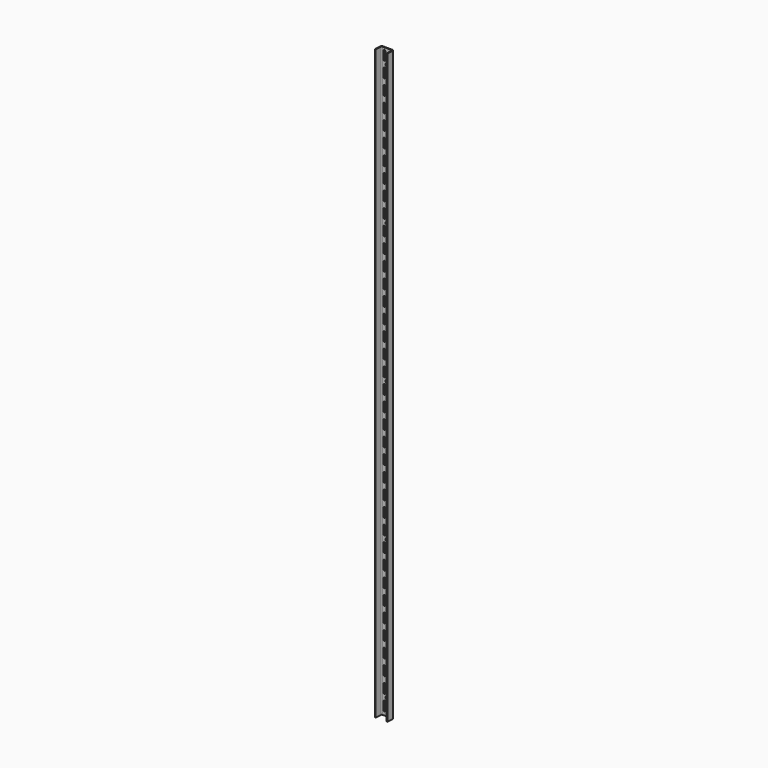
from build123d import *

# Parameters (mm, degrees)
F1_DEPTH = 1206.5
F2_R     = 3.175
F3_DEPTH = 25.4
F5_DEPTH = 15.848939


with BuildPart() as f1:
    # F0 (on Top) → F1 (new body)
    with BuildSketch(Plane.XY):
        with BuildLine():
            ThreePointArc((12.965239, 4.53678), (12.098423, 6.919561), (9.770294, 7.923969))
            Line((9.770294, 7.923969), (-9.217976, 7.923969))
            ThreePointArc((-9.217976, 7.923969), (-11.413967, 7.051697), (-12.41292, 4.910359))
            Line((-12.41292, 4.910359), (-13.163268, -7.923969))
            Line((-13.163268, -7.923969), (-11.573057, -7.923969))
            Line((-11.573057, -7.923969), (-10.827427, 4.829664))
            ThreePointArc((-10.827427, 4.829664), (-10.327951, 5.900333), (-9.229955, 6.336469))
            Line((-9.229955, 6.336469), (9.783759, 6.336469))
            ThreePointArc((9.783759, 6.336469), (10.947823, 5.834265), (11.381231, 4.642874))
            Line((11.381231, 4.642874), (10.646521, -7.923969))
            Line((10.646521, -7.923969), (12.236732, -7.923969))
            Line((12.236732, -7.923969), (12.965239, 4.53678))
        make_face()
    extrude(amount=F1_DEPTH)

    # F2 (on face) → F3 (cut)
    with BuildSketch(Plane(origin=(0, 7.923969, 0), x_dir=(-1, 0, 0), z_dir=(0, 1, 0))):
        with Locations((-0.276159, 33.3375)):
            Circle(F2_R)
        with Locations((-0.276159, 319.0875)):
            Circle(F2_R)
        with Locations((-0.276159, 604.8375)):
            Circle(F2_R)
        with Locations((-0.276159, 890.5875)):
            Circle(F2_R)
        with Locations((-0.276159, 1176.3375)):
            Circle(F2_R)
    extrude(amount=-F3_DEPTH, mode=Mode.SUBTRACT)

    # F4 (on face) → F5 (cut, through all)
    with BuildSketch(Plane(origin=(0, 7.923969, 0), x_dir=(-1, 0, 0), z_dir=(0, 1, 0))):
        with BuildLine():
            ThreePointArc((-3.848034, 1200.15), (-5.832409, 1202.134375), (-7.816784, 1200.15))
            Line((-7.816784, 1200.15), (-7.816784, 1184.275))
            ThreePointArc((-7.816784, 1184.275), (-5.832409, 1182.290625), (-3.848034, 1184.275))
            Line((-3.848034, 1184.275), (-3.848034, 1200.15))
        make_face()
        with BuildLine():
            Line((7.264466, 1184.275), (7.264466, 1200.15))
            ThreePointArc((7.264466, 1200.15), (5.280091, 1202.134375), (3.295716, 1200.15))
            Line((3.295716, 1200.15), (3.295716, 1184.275))
            ThreePointArc((3.295716, 1184.275), (5.280091, 1182.290625), (7.264466, 1184.275))
        make_face()
        with BuildLine():
            Line((-3.848034, 1152.525), (-3.848034, 1168.4))
            ThreePointArc((-3.848034, 1168.4), (-5.832409, 1170.384375), (-7.816784, 1168.4))
            Line((-7.816784, 1168.4), (-7.816784, 1152.525))
            ThreePointArc((-7.816784, 1152.525), (-5.832409, 1150.540625), (-3.848034, 1152.525))
        make_face()
        with BuildLine():
            Line((7.264466, 1152.525), (7.264466, 1168.4))
            ThreePointArc((7.264466, 1168.4), (5.280091, 1170.384375), (3.295716, 1168.4))
            Line((3.295716, 1168.4), (3.295716, 1152.525))
            ThreePointArc((3.295716, 1152.525), (5.280091, 1150.540625), (7.264466, 1152.525))
        make_face()
        with BuildLine():
            Line((-3.848034, 1120.775), (-3.848034, 1136.65))
            ThreePointArc((-3.848034, 1136.65), (-5.832409, 1138.634375), (-7.816784, 1136.65))
            Line((-7.816784, 1136.65), (-7.816784, 1120.775))
            ThreePointArc((-7.816784, 1120.775), (-5.832409, 1118.790625), (-3.848034, 1120.775))
        make_face()
        with BuildLine():
            Line((7.264466, 1120.775), (7.264466, 1136.65))
            ThreePointArc((7.264466, 1136.65), (5.280091, 1138.634375), (3.295716, 1136.65))
            Line((3.295716, 1136.65), (3.295716, 1120.775))
            ThreePointArc((3.295716, 1120.775), (5.280091, 1118.790625), (7.264466, 1120.775))
        make_face()
        with BuildLine():
            Line((-3.848034, 1089.025), (-3.848034, 1104.9))
            ThreePointArc((-3.848034, 1104.9), (-5.832409, 1106.884375), (-7.816784, 1104.9))
            Line((-7.816784, 1104.9), (-7.816784, 1089.025))
            ThreePointArc((-7.816784, 1089.025), (-5.832409, 1087.040625), (-3.848034, 1089.025))
        make_face()
        with BuildLine():
            Line((7.264466, 1089.025), (7.264466, 1104.9))
            ThreePointArc((7.264466, 1104.9), (5.280091, 1106.884375), (3.295716, 1104.9))
            Line((3.295716, 1104.9), (3.295716, 1089.025))
            ThreePointArc((3.295716, 1089.025), (5.280091, 1087.040625), (7.264466, 1089.025))
        make_face()
        with BuildLine():
            Line((-3.848034, 1057.275), (-3.848034, 1073.15))
            ThreePointArc((-3.848034, 1073.15), (-5.832409, 1075.134375), (-7.816784, 1073.15))
            Line((-7.816784, 1073.15), (-7.816784, 1057.275))
            ThreePointArc((-7.816784, 1057.275), (-5.832409, 1055.290625), (-3.848034, 1057.275))
        make_face()
        with BuildLine():
            Line((7.264466, 1057.275), (7.264466, 1073.15))
            ThreePointArc((7.264466, 1073.15), (5.280091, 1075.134375), (3.295716, 1073.15))
            Line((3.295716, 1073.15), (3.295716, 1057.275))
            ThreePointArc((3.295716, 1057.275), (5.280091, 1055.290625), (7.264466, 1057.275))
        make_face()
        with BuildLine():
            Line((-3.848034, 1025.525), (-3.848034, 1041.4))
            ThreePointArc((-3.848034, 1041.4), (-5.832409, 1043.384375), (-7.816784, 1041.4))
            Line((-7.816784, 1041.4), (-7.816784, 1025.525))
            ThreePointArc((-7.816784, 1025.525), (-5.832409, 1023.540625), (-3.848034, 1025.525))
        make_face()
        with BuildLine():
            Line((7.264466, 1025.525), (7.264466, 1041.4))
            ThreePointArc((7.264466, 1041.4), (5.280091, 1043.384375), (3.295716, 1041.4))
            Line((3.295716, 1041.4), (3.295716, 1025.525))
            ThreePointArc((3.295716, 1025.525), (5.280091, 1023.540625), (7.264466, 1025.525))
        make_face()
        with BuildLine():
            Line((-3.848034, 993.775), (-3.848034, 1009.65))
            ThreePointArc((-3.848034, 1009.65), (-5.832409, 1011.634375), (-7.816784, 1009.65))
            Line((-7.816784, 1009.65), (-7.816784, 993.775))
            ThreePointArc((-7.816784, 993.775), (-5.832409, 991.790625), (-3.848034, 993.775))
        make_face()
        with BuildLine():
            Line((7.264466, 993.775), (7.264466, 1009.65))
            ThreePointArc((7.264466, 1009.65), (5.280091, 1011.634375), (3.295716, 1009.65))
            Line((3.295716, 1009.65), (3.295716, 993.775))
            ThreePointArc((3.295716, 993.775), (5.280091, 991.790625), (7.264466, 993.775))
        make_face()
        with BuildLine():
            Line((-3.848034, 962.025), (-3.848034, 977.9))
            ThreePointArc((-3.848034, 977.9), (-5.832409, 979.884375), (-7.816784, 977.9))
            Line((-7.816784, 977.9), (-7.816784, 962.025))
            ThreePointArc((-7.816784, 962.025), (-5.832409, 960.040625), (-3.848034, 962.025))
        make_face()
        with BuildLine():
            Line((7.264466, 962.025), (7.264466, 977.9))
            ThreePointArc((7.264466, 977.9), (5.280091, 979.884375), (3.295716, 977.9))
            Line((3.295716, 977.9), (3.295716, 962.025))
            ThreePointArc((3.295716, 962.025), (5.280091, 960.040625), (7.264466, 962.025))
        make_face()
        with BuildLine():
            Line((7.264466, 898.525), (7.264466, 914.4))
            ThreePointArc((7.264466, 914.4), (5.280091, 916.384375), (3.295716, 914.4))
            Line((3.295716, 914.4), (3.295716, 898.525))
            ThreePointArc((3.295716, 898.525), (5.280091, 896.540625), (7.264466, 898.525))
        make_face()
        with BuildLine():
            Line((-3.848034, 930.275), (-3.848034, 946.15))
            ThreePointArc((-3.848034, 946.15), (-5.832409, 948.134375), (-7.816784, 946.15))
            Line((-7.816784, 946.15), (-7.816784, 930.275))
            ThreePointArc((-7.816784, 930.275), (-5.832409, 928.290625), (-3.848034, 930.275))
        make_face()
        with BuildLine():
            Line((-3.848034, 898.525), (-3.848034, 914.4))
            ThreePointArc((-3.848034, 914.4), (-5.832409, 916.384375), (-7.816784, 914.4))
            Line((-7.816784, 914.4), (-7.816784, 898.525))
            ThreePointArc((-7.816784, 898.525), (-5.832409, 896.540625), (-3.848034, 898.525))
        make_face()
        with BuildLine():
            Line((7.264466, 930.275), (7.264466, 946.15))
            ThreePointArc((7.264466, 946.15), (5.280091, 948.134375), (3.295716, 946.15))
            Line((3.295716, 946.15), (3.295716, 930.275))
            ThreePointArc((3.295716, 930.275), (5.280091, 928.290625), (7.264466, 930.275))
        make_face()
        with BuildLine():
            Line((7.264466, 454.025), (7.264466, 469.9))
            ThreePointArc((7.264466, 469.9), (5.280091, 471.884375), (3.295716, 469.9))
            Line((3.295716, 469.9), (3.295716, 454.025))
            ThreePointArc((3.295716, 454.025), (5.280091, 452.040625), (7.264466, 454.025))
        make_face()
        with BuildLine():
            Line((-3.848034, 200.025), (-3.848034, 215.9))
            ThreePointArc((-3.848034, 215.9), (-5.832409, 217.884375), (-7.816784, 215.9))
            Line((-7.816784, 215.9), (-7.816784, 200.025))
            ThreePointArc((-7.816784, 200.025), (-5.832409, 198.040625), (-3.848034, 200.025))
        make_face()
        with BuildLine():
            Line((7.264466, 581.025), (7.264466, 596.9))
            ThreePointArc((7.264466, 596.9), (5.280091, 598.884375), (3.295716, 596.9))
            Line((3.295716, 596.9), (3.295716, 581.025))
            ThreePointArc((3.295716, 581.025), (5.280091, 579.040625), (7.264466, 581.025))
        make_face()
        with BuildLine():
            Line((7.264466, 41.275), (7.264466, 57.15))
            ThreePointArc((7.264466, 57.15), (5.280091, 59.134375), (3.295716, 57.15))
            Line((3.295716, 57.15), (3.295716, 41.275))
            ThreePointArc((3.295716, 41.275), (5.280091, 39.290625), (7.264466, 41.275))
        make_face()
        with BuildLine():
            Line((-3.848034, 358.775), (-3.848034, 374.65))
            ThreePointArc((-3.848034, 374.65), (-5.832409, 376.634375), (-7.816784, 374.65))
            Line((-7.816784, 374.65), (-7.816784, 358.775))
            ThreePointArc((-7.816784, 358.775), (-5.832409, 356.790625), (-3.848034, 358.775))
        make_face()
        with BuildLine():
            Line((-3.848034, 676.275), (-3.848034, 692.15))
            ThreePointArc((-3.848034, 692.15), (-5.832409, 694.134375), (-7.816784, 692.15))
            Line((-7.816784, 692.15), (-7.816784, 676.275))
            ThreePointArc((-7.816784, 676.275), (-5.832409, 674.290625), (-3.848034, 676.275))
        make_face()
        with BuildLine():
            Line((7.264466, 358.775), (7.264466, 374.65))
            ThreePointArc((7.264466, 374.65), (5.280091, 376.634375), (3.295716, 374.65))
            Line((3.295716, 374.65), (3.295716, 358.775))
            ThreePointArc((3.295716, 358.775), (5.280091, 356.790625), (7.264466, 358.775))
        make_face()
        with BuildLine():
            Line((-3.848034, 612.775), (-3.848034, 628.65))
            ThreePointArc((-3.848034, 628.65), (-5.832409, 630.634375), (-7.816784, 628.65))
            Line((-7.816784, 628.65), (-7.816784, 612.775))
            ThreePointArc((-7.816784, 612.775), (-5.832409, 610.790625), (-3.848034, 612.775))
        make_face()
        with BuildLine():
            Line((7.264466, 295.275), (7.264466, 311.15))
            ThreePointArc((7.264466, 311.15), (5.280091, 313.134375), (3.295716, 311.15))
            Line((3.295716, 311.15), (3.295716, 295.275))
            ThreePointArc((3.295716, 295.275), (5.280091, 293.290625), (7.264466, 295.275))
        make_face()
        with BuildLine():
            Line((7.264466, 168.275), (7.264466, 184.15))
            ThreePointArc((7.264466, 184.15), (5.280091, 186.134375), (3.295716, 184.15))
            Line((3.295716, 184.15), (3.295716, 168.275))
            ThreePointArc((3.295716, 168.275), (5.280091, 166.290625), (7.264466, 168.275))
        make_face()
        with BuildLine():
            Line((-3.848034, 803.275), (-3.848034, 819.15))
            ThreePointArc((-3.848034, 819.15), (-5.832409, 821.134375), (-7.816784, 819.15))
            Line((-7.816784, 819.15), (-7.816784, 803.275))
            ThreePointArc((-7.816784, 803.275), (-5.832409, 801.290625), (-3.848034, 803.275))
        make_face()
        with BuildLine():
            Line((7.264466, 676.275), (7.264466, 692.15))
            ThreePointArc((7.264466, 692.15), (5.280091, 694.134375), (3.295716, 692.15))
            Line((3.295716, 692.15), (3.295716, 676.275))
            ThreePointArc((3.295716, 676.275), (5.280091, 674.290625), (7.264466, 676.275))
        make_face()
        with BuildLine():
            Line((-3.848034, 485.775), (-3.848034, 501.65))
            ThreePointArc((-3.848034, 501.65), (-5.832409, 503.634375), (-7.816784, 501.65))
            Line((-7.816784, 501.65), (-7.816784, 485.775))
            ThreePointArc((-7.816784, 485.775), (-5.832409, 483.790625), (-3.848034, 485.775))
        make_face()
        with BuildLine():
            Line((7.264466, 136.525), (7.264466, 152.4))
            ThreePointArc((7.264466, 152.4), (5.280091, 154.384375), (3.295716, 152.4))
            Line((3.295716, 152.4), (3.295716, 136.525))
            ThreePointArc((3.295716, 136.525), (5.280091, 134.540625), (7.264466, 136.525))
        make_face()
        with BuildLine():
            Line((7.264466, 644.525), (7.264466, 660.4))
            ThreePointArc((7.264466, 660.4), (5.280091, 662.384375), (3.295716, 660.4))
            Line((3.295716, 660.4), (3.295716, 644.525))
            ThreePointArc((3.295716, 644.525), (5.280091, 642.540625), (7.264466, 644.525))
        make_face()
        with BuildLine():
            Line((-3.848034, 454.025), (-3.848034, 469.9))
            ThreePointArc((-3.848034, 469.9), (-5.832409, 471.884375), (-7.816784, 469.9))
            Line((-7.816784, 469.9), (-7.816784, 454.025))
            ThreePointArc((-7.816784, 454.025), (-5.832409, 452.040625), (-3.848034, 454.025))
        make_face()
        with BuildLine():
            Line((7.264466, 104.775), (7.264466, 120.65))
            ThreePointArc((7.264466, 120.65), (5.280091, 122.634375), (3.295716, 120.65))
            Line((3.295716, 120.65), (3.295716, 104.775))
            ThreePointArc((3.295716, 104.775), (5.280091, 102.790625), (7.264466, 104.775))
        make_face()
        with BuildLine():
            Line((7.264466, 612.775), (7.264466, 628.65))
            ThreePointArc((7.264466, 628.65), (5.280091, 630.634375), (3.295716, 628.65))
            Line((3.295716, 628.65), (3.295716, 612.775))
            ThreePointArc((3.295716, 612.775), (5.280091, 610.790625), (7.264466, 612.775))
        make_face()
        with BuildLine():
            Line((-3.848034, 422.275), (-3.848034, 438.15))
            ThreePointArc((-3.848034, 438.15), (-5.832409, 440.134375), (-7.816784, 438.15))
            Line((-7.816784, 438.15), (-7.816784, 422.275))
            ThreePointArc((-7.816784, 422.275), (-5.832409, 420.290625), (-3.848034, 422.275))
        make_face()
        with BuildLine():
            Line((7.264466, 390.525), (7.264466, 406.4))
            ThreePointArc((7.264466, 406.4), (5.280091, 408.384375), (3.295716, 406.4))
            Line((3.295716, 406.4), (3.295716, 390.525))
            ThreePointArc((3.295716, 390.525), (5.280091, 388.540625), (7.264466, 390.525))
        make_face()
        with BuildLine():
            Line((7.264466, 549.275), (7.264466, 565.15))
            ThreePointArc((7.264466, 565.15), (5.280091, 567.134375), (3.295716, 565.15))
            Line((3.295716, 565.15), (3.295716, 549.275))
            ThreePointArc((3.295716, 549.275), (5.280091, 547.290625), (7.264466, 549.275))
        make_face()
        with BuildLine():
            Line((-3.848034, 263.525), (-3.848034, 279.4))
            ThreePointArc((-3.848034, 279.4), (-5.832409, 281.384375), (-7.816784, 279.4))
            Line((-7.816784, 279.4), (-7.816784, 263.525))
            ThreePointArc((-7.816784, 263.525), (-5.832409, 261.540625), (-3.848034, 263.525))
        make_face()
        with BuildLine():
            Line((7.264466, 517.525), (7.264466, 533.4))
            ThreePointArc((7.264466, 533.4), (5.280091, 535.384375), (3.295716, 533.4))
            Line((3.295716, 533.4), (3.295716, 517.525))
            ThreePointArc((3.295716, 517.525), (5.280091, 515.540625), (7.264466, 517.525))
        make_face()
        with BuildLine():
            Line((-3.848034, 327.025), (-3.848034, 342.9))
            ThreePointArc((-3.848034, 342.9), (-5.832409, 344.884375), (-7.816784, 342.9))
            Line((-7.816784, 342.9), (-7.816784, 327.025))
            ThreePointArc((-7.816784, 327.025), (-5.832409, 325.040625), (-3.848034, 327.025))
        make_face()
        with BuildLine():
            Line((-3.848034, 231.775), (-3.848034, 247.65))
            ThreePointArc((-3.848034, 247.65), (-5.832409, 249.634375), (-7.816784, 247.65))
            Line((-7.816784, 247.65), (-7.816784, 231.775))
            ThreePointArc((-7.816784, 231.775), (-5.832409, 229.790625), (-3.848034, 231.775))
        make_face()
        with BuildLine():
            Line((7.264466, 485.775), (7.264466, 501.65))
            ThreePointArc((7.264466, 501.65), (5.280091, 503.634375), (3.295716, 501.65))
            Line((3.295716, 501.65), (3.295716, 485.775))
            ThreePointArc((3.295716, 485.775), (5.280091, 483.790625), (7.264466, 485.775))
        make_face()
        with BuildLine():
            Line((-3.848034, 295.275), (-3.848034, 311.15))
            ThreePointArc((-3.848034, 311.15), (-5.832409, 313.134375), (-7.816784, 311.15))
            Line((-7.816784, 311.15), (-7.816784, 295.275))
            ThreePointArc((-7.816784, 295.275), (-5.832409, 293.290625), (-3.848034, 295.275))
        make_face()
        with BuildLine():
            Line((-3.848034, 168.275), (-3.848034, 184.15))
            ThreePointArc((-3.848034, 184.15), (-5.832409, 186.134375), (-7.816784, 184.15))
            Line((-7.816784, 184.15), (-7.816784, 168.275))
            ThreePointArc((-7.816784, 168.275), (-5.832409, 166.290625), (-3.848034, 168.275))
        make_face()
        with BuildLine():
            Line((-3.848034, 136.525), (-3.848034, 152.4))
            ThreePointArc((-3.848034, 152.4), (-5.832409, 154.384375), (-7.816784, 152.4))
            Line((-7.816784, 152.4), (-7.816784, 136.525))
            ThreePointArc((-7.816784, 136.525), (-5.832409, 134.540625), (-3.848034, 136.525))
        make_face()
        with BuildLine():
            Line((-3.848034, 644.525), (-3.848034, 660.4))
            ThreePointArc((-3.848034, 660.4), (-5.832409, 662.384375), (-7.816784, 660.4))
            Line((-7.816784, 660.4), (-7.816784, 644.525))
            ThreePointArc((-7.816784, 644.525), (-5.832409, 642.540625), (-3.848034, 644.525))
        make_face()
        with BuildLine():
            Line((7.264466, 835.025), (7.264466, 850.9))
            ThreePointArc((7.264466, 850.9), (5.280091, 852.884375), (3.295716, 850.9))
            Line((3.295716, 850.9), (3.295716, 835.025))
            ThreePointArc((3.295716, 835.025), (5.280091, 833.040625), (7.264466, 835.025))
        make_face()
        with BuildLine():
            Line((7.264466, 803.275), (7.264466, 819.15))
            ThreePointArc((7.264466, 819.15), (5.280091, 821.134375), (3.295716, 819.15))
            Line((3.295716, 819.15), (3.295716, 803.275))
            ThreePointArc((3.295716, 803.275), (5.280091, 801.290625), (7.264466, 803.275))
        make_face()
        with BuildLine():
            Line((-3.848034, 73.025), (-3.848034, 88.9))
            ThreePointArc((-3.848034, 88.9), (-5.832409, 90.884375), (-7.816784, 88.9))
            Line((-7.816784, 88.9), (-7.816784, 73.025))
            ThreePointArc((-7.816784, 73.025), (-5.832409, 71.040625), (-3.848034, 73.025))
        make_face()
        with BuildLine():
            Line((7.264466, 263.525), (7.264466, 279.4))
            ThreePointArc((7.264466, 279.4), (5.280091, 281.384375), (3.295716, 279.4))
            Line((3.295716, 279.4), (3.295716, 263.525))
            ThreePointArc((3.295716, 263.525), (5.280091, 261.540625), (7.264466, 263.525))
        make_face()
        with BuildLine():
            Line((7.264466, 771.525), (7.264466, 787.4))
            ThreePointArc((7.264466, 787.4), (5.280091, 789.384375), (3.295716, 787.4))
            Line((3.295716, 787.4), (3.295716, 771.525))
            ThreePointArc((3.295716, 771.525), (5.280091, 769.540625), (7.264466, 771.525))
        make_face()
        with BuildLine():
            Line((7.264466, 231.775), (7.264466, 247.65))
            ThreePointArc((7.264466, 247.65), (5.280091, 249.634375), (3.295716, 247.65))
            Line((3.295716, 247.65), (3.295716, 231.775))
            ThreePointArc((3.295716, 231.775), (5.280091, 229.790625), (7.264466, 231.775))
        make_face()
        with BuildLine():
            Line((7.264466, 739.775), (7.264466, 755.65))
            ThreePointArc((7.264466, 755.65), (5.280091, 757.634375), (3.295716, 755.65))
            Line((3.295716, 755.65), (3.295716, 739.775))
            ThreePointArc((3.295716, 739.775), (5.280091, 737.790625), (7.264466, 739.775))
        make_face()
        with BuildLine():
            Line((-3.848034, 41.275), (-3.848034, 57.15))
            ThreePointArc((-3.848034, 57.15), (-5.832409, 59.134375), (-7.816784, 57.15))
            Line((-7.816784, 57.15), (-7.816784, 41.275))
            ThreePointArc((-7.816784, 41.275), (-5.832409, 39.290625), (-3.848034, 41.275))
        make_face()
        with BuildLine():
            Line((-3.848034, 549.275), (-3.848034, 565.15))
            ThreePointArc((-3.848034, 565.15), (-5.832409, 567.134375), (-7.816784, 565.15))
            Line((-7.816784, 565.15), (-7.816784, 549.275))
            ThreePointArc((-7.816784, 549.275), (-5.832409, 547.290625), (-3.848034, 549.275))
        make_face()
        with BuildLine():
            Line((-3.848034, 517.525), (-3.848034, 533.4))
            ThreePointArc((-3.848034, 533.4), (-5.832409, 535.384375), (-7.816784, 533.4))
            Line((-7.816784, 533.4), (-7.816784, 517.525))
            ThreePointArc((-7.816784, 517.525), (-5.832409, 515.540625), (-3.848034, 517.525))
        make_face()
        with BuildLine():
            Line((7.264466, 708.025), (7.264466, 723.9))
            ThreePointArc((7.264466, 723.9), (5.280091, 725.884375), (3.295716, 723.9))
            Line((3.295716, 723.9), (3.295716, 708.025))
            ThreePointArc((3.295716, 708.025), (5.280091, 706.040625), (7.264466, 708.025))
        make_face()
        with BuildLine():
            Line((-3.848034, 771.525), (-3.848034, 787.4))
            ThreePointArc((-3.848034, 787.4), (-5.832409, 789.384375), (-7.816784, 787.4))
            Line((-7.816784, 787.4), (-7.816784, 771.525))
            ThreePointArc((-7.816784, 771.525), (-5.832409, 769.540625), (-3.848034, 771.525))
        make_face()
        with BuildLine():
            Line((-3.848034, 9.525), (-3.848034, 25.4))
            ThreePointArc((-3.848034, 25.4), (-5.832409, 27.384375), (-7.816784, 25.4))
            Line((-7.816784, 25.4), (-7.816784, 9.525))
            ThreePointArc((-7.816784, 9.525), (-5.832409, 7.540625), (-3.848034, 9.525))
        make_face()
        with BuildLine():
            Line((-3.848034, 104.775), (-3.848034, 120.65))
            ThreePointArc((-3.848034, 120.65), (-5.832409, 122.634375), (-7.816784, 120.65))
            Line((-7.816784, 120.65), (-7.816784, 104.775))
            ThreePointArc((-7.816784, 104.775), (-5.832409, 102.790625), (-3.848034, 104.775))
        make_face()
        with BuildLine():
            Line((7.264466, 73.025), (7.264466, 88.9))
            ThreePointArc((7.264466, 88.9), (5.280091, 90.884375), (3.295716, 88.9))
            Line((3.295716, 88.9), (3.295716, 73.025))
            ThreePointArc((3.295716, 73.025), (5.280091, 71.040625), (7.264466, 73.025))
        make_face()
        with BuildLine():
            Line((7.264466, 9.525), (7.264466, 25.4))
            ThreePointArc((7.264466, 25.4), (5.280091, 27.384375), (3.295716, 25.4))
            Line((3.295716, 25.4), (3.295716, 9.525))
            ThreePointArc((3.295716, 9.525), (5.280091, 7.540625), (7.264466, 9.525))
        make_face()
        with BuildLine():
            Line((7.264466, 200.025), (7.264466, 215.9))
            ThreePointArc((7.264466, 215.9), (5.280091, 217.884375), (3.295716, 215.9))
            Line((3.295716, 215.9), (3.295716, 200.025))
            ThreePointArc((3.295716, 200.025), (5.280091, 198.040625), (7.264466, 200.025))
        make_face()
        with BuildLine():
            Line((7.264466, 327.025), (7.264466, 342.9))
            ThreePointArc((7.264466, 342.9), (5.280091, 344.884375), (3.295716, 342.9))
            Line((3.295716, 342.9), (3.295716, 327.025))
            ThreePointArc((3.295716, 327.025), (5.280091, 325.040625), (7.264466, 327.025))
        make_face()
        with BuildLine():
            Line((-3.848034, 390.525), (-3.848034, 406.4))
            ThreePointArc((-3.848034, 406.4), (-5.832409, 408.384375), (-7.816784, 406.4))
            Line((-7.816784, 406.4), (-7.816784, 390.525))
            ThreePointArc((-7.816784, 390.525), (-5.832409, 388.540625), (-3.848034, 390.525))
        make_face()
        with BuildLine():
            Line((7.264466, 422.275), (7.264466, 438.15))
            ThreePointArc((7.264466, 438.15), (5.280091, 440.134375), (3.295716, 438.15))
            Line((3.295716, 438.15), (3.295716, 422.275))
            ThreePointArc((3.295716, 422.275), (5.280091, 420.290625), (7.264466, 422.275))
        make_face()
        with BuildLine():
            Line((-3.848034, 581.025), (-3.848034, 596.9))
            ThreePointArc((-3.848034, 596.9), (-5.832409, 598.884375), (-7.816784, 596.9))
            Line((-7.816784, 596.9), (-7.816784, 581.025))
            ThreePointArc((-7.816784, 581.025), (-5.832409, 579.040625), (-3.848034, 581.025))
        make_face()
        with BuildLine():
            Line((-3.848034, 739.775), (-3.848034, 755.65))
            ThreePointArc((-3.848034, 755.65), (-5.832409, 757.634375), (-7.816784, 755.65))
            Line((-7.816784, 755.65), (-7.816784, 739.775))
            ThreePointArc((-7.816784, 739.775), (-5.832409, 737.790625), (-3.848034, 739.775))
        make_face()
        with BuildLine():
            Line((-3.848034, 708.025), (-3.848034, 723.9))
            ThreePointArc((-3.848034, 723.9), (-5.832409, 725.884375), (-7.816784, 723.9))
            Line((-7.816784, 723.9), (-7.816784, 708.025))
            ThreePointArc((-7.816784, 708.025), (-5.832409, 706.040625), (-3.848034, 708.025))
        make_face()
        with BuildLine():
            Line((-3.848034, 835.025), (-3.848034, 850.9))
            ThreePointArc((-3.848034, 850.9), (-5.832409, 852.884375), (-7.816784, 850.9))
            Line((-7.816784, 850.9), (-7.816784, 835.025))
            ThreePointArc((-7.816784, 835.025), (-5.832409, 833.040625), (-3.848034, 835.025))
        make_face()
        with BuildLine():
            Line((-3.848034, 866.775), (-3.848034, 882.65))
            ThreePointArc((-3.848034, 882.65), (-5.832409, 884.634375), (-7.816784, 882.65))
            Line((-7.816784, 882.65), (-7.816784, 866.775))
            ThreePointArc((-7.816784, 866.775), (-5.832409, 864.790625), (-3.848034, 866.775))
        make_face()
        with BuildLine():
            Line((7.264466, 866.775), (7.264466, 882.65))
            ThreePointArc((7.264466, 882.65), (5.280091, 884.634375), (3.295716, 882.65))
            Line((3.295716, 882.65), (3.295716, 866.775))
            ThreePointArc((3.295716, 866.775), (5.280091, 864.790625), (7.264466, 866.775))
        make_face()
    extrude(amount=-F5_DEPTH, mode=Mode.SUBTRACT)


solid = f1.part
